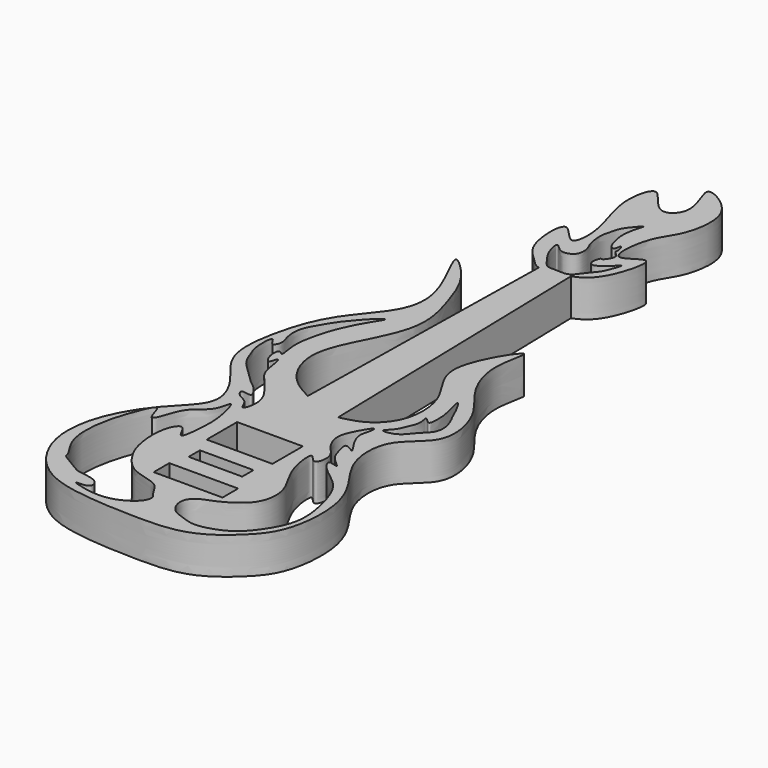
from build123d import *

# Parameters (mm, degrees)
F0_W     = 94.7368181817
F0_H     = 26.8656377017
F0_W_2   = 73.7654825033
F0_H_2   = 19.4175753778
F0_W_3   = 90.4948551659
F0_H_3   = 52.3173499345
F1_DEPTH = 50.8


with BuildPart() as f1:
    # F0 (on Top) → F1 (new body)
    with BuildSketch(Plane.XY):
        with BuildLine():
            Line((-26.777314246, -102.7174559399), (-26.777314246, -24.9484376807))
            add(Edge.make_bspline(
                [(-26.777314246, -24.9484376807), (-39.2312087682, -18.3222932809), (-66.3421038811, -3.8917691565), (-93.2111224428, 56.541696922), (-53.2867958123, 126.0574303904), (-29.4325944066, 185.6586160234), (-49.4443986063, 249.3921397477), (-65.5252329262, 293.730587512), (-119.362659462, 344.5491811008), (-62.6492740466, 252.4311506789), (-69.5790474784, 192.3042427025), (-122.8978816271, 140.4289316735), (-146.2131183139, 74.8351837618), (-157.2289647293, -3.4443591981), (-112.558016626, -45.3097005874), (-87.414818505, -98.8730440568), (-135.4999134873, -139.0010691811), (-174.8306453568, -199.5798889361), (-184.3285757713, -275.159054464), (-139.4009724375, -343.1159063066), (-67.1603687192, -357.7329771624), (-0.8963752119, -360.5040406834), (72.4335905606, -360.687743194), (123.3704142941, -320.087810804), (154.0312608897, -282.3316046681), (159.77433301, -204.2555943933), (136.3917821151, -155.6626959683), (103.3161909454, -116.0865102319), (101.6346534567, -48.3484051386), (160.0056956207, -20.0672731934), (144.5184043425, 53.9115123978), (104.0808293724, 92.354168094), (81.3471966308, 151.2656857783), (106.6746609476, 225.7375418331), (35.3870715235, 116.5359806728), (91.4293660799, 68.234357501), (95.4225237962, -1.7142324276), (62.1604827287, -36.5481789616), (39.3243153174, -41.0183277921), (29.7819609504, -43.330212238)],
                knots=[0, 0, 0, 0, 0.0229585842, 0.0494792802, 0.0800979203, 0.1079155331, 0.1354247943, 0.1613141449, 0.1826490829, 0.2119326009, 0.2397360785, 0.2687535267, 0.2982009865, 0.3279552592, 0.3547193068, 0.3791978786, 0.4049840116, 0.4348044416, 0.4644896876, 0.4943798073, 0.5235319054, 0.552296069, 0.5817350946, 0.6090353113, 0.6331782983, 0.6631514142, 0.6886336906, 0.7134830575, 0.7400743616, 0.7657560257, 0.7933750972, 0.8196980275, 0.8481032881, 0.8697292126, 0.9007606855, 0.9296715453, 0.9573448386, 0.9803820232, 1, 1, 1, 1], degree=3))
            Line((29.7819609504, -43.330212238), (29.7819609504, -102.7174559399))
            Line((29.7819609504, -102.7174559399), (-26.777314246, -102.7174559399))
        make_face()
        with BuildLine():
            add(Edge.make_bspline(
                [(-15.1307486045, -305.4060729293), (-18.3042318475, -300.8530080079), (-25.0048790468, -282.8992251354), (-67.2863073174, -281.4491261402), (-91.4725964814, -246.3057993484), (-98.0666054984, -226.6507034961), (-102.1486745324, -198.504063124), (-97.7472723552, -171.9277726408), (-85.3075294306, -160.1120760401), (-73.5384183589, -195.9806056953), (-69.1539407652, -147.0590153613), (-69.0956395225, -122.353010453), (-81.0828203859, -78.5356652638), (-82.8104361679, -115.5147749363), (-113.430987203, -127.413094798), (-119.3627980093, -163.6658936643), (-129.5254335658, -172.0778206375), (-134.6667829214, -133.6976871196), (-152.7640216102, -177.2619016491), (-164.4163427386, -218.3959833726), (-163.5362186125, -265.1201806374), (-142.4021068102, -290.4684201278), (-144.7982436586, -297.0962648623), (-119.3795342135, -309.8508541645), (-110.8197056083, -317.379108981), (-79.7594657771, -317.7601405115), (-74.7531928539, -338.9301642842), (-108.4550614544, -335.1181663671), (-63.0876516254, -348.6312553047), (-31.9112242636, -341.9878811549), (-10.6588882991, -325.6295866703), (-8.3592667288, -311.9255984226), (-13.0545901414, -308.3847822987), (-15.1307486045, -305.4060729293)],
                knots=[0, 0, 0, 0, 0.0303677172, 0.0717339787, 0.1136232633, 0.144103955, 0.1794095084, 0.2144290149, 0.2351442601, 0.264129108, 0.3000009463, 0.340093357, 0.3747976989, 0.4039326785, 0.4419310747, 0.4812044789, 0.4974507382, 0.5280993132, 0.562992395, 0.6100073772, 0.6552849103, 0.6910419801, 0.7059755348, 0.7393491946, 0.764160354, 0.7993093963, 0.822452033, 0.8488669615, 0.8843299335, 0.9249292226, 0.9579869232, 0.9801328105, 1, 1, 1, 1], degree=3))
        make_face(mode=Mode.SUBTRACT)
        with BuildLine():
            add(Edge.make_bspline(
                [(-64.5757773193, -89.68909416), (-62.3751326617, -89.8897313335), (-56.6643469328, -70.30676405), (-66.4202894461, -47.8730991614), (-86.3814452561, -25.8105109504), (-99.9941182653, -9.085762161), (-101.1237710936, 13.4055238447), (-105.8683399444, 26.4262189241), (-108.6932784597, 4.8850513303), (-119.3362455986, 24.1315192094), (-117.0208787658, 41.2574697004), (-106.7738712415, 29.295213804), (-113.108592247, 54.5248600714), (-110.7964029184, 78.2424906655), (-103.0537280839, 108.9048547484), (-92.4280242344, 132.0019958819), (-84.7724040267, 146.6987608911), (-66.9751807473, 173.4649935535), (-87.3898675677, 156.4327894291), (-99.2919664765, 141.6253255718), (-110.147491878, 129.3146807467), (-121.3244814744, 109.5517188568), (-132.8076045881, 90.1061158679), (-130.1627342501, 66.6137070125), (-124.5186333202, 55.7102864337), (-131.6496692592, 39.8030716324), (-141.1767630022, 64.4365601762), (-142.8090249757, 32.1153039765), (-137.628426765, 16.0545550683), (-128.8096921183, -6.1977806695), (-113.091406722, -18.6467319282), (-97.7323404683, -36.394328225), (-84.2152302889, -44.2154741045), (-69.5260367468, -66.2168674613), (-93.6248290695, -56.3310312886), (-84.8944311357, -72.0601926028), (-70.1264348204, -74.0330744966), (-66.5616631789, -89.5080369755), (-64.5757773193, -89.68909416)],
                knots=[0, 0, 0, 0, 0.0272020021, 0.0612208612, 0.0970987274, 0.1277411858, 0.1600069336, 0.177210935, 0.1985286412, 0.2236268362, 0.2473273242, 0.2634086778, 0.2906028414, 0.3253509775, 0.3624827443, 0.3952418913, 0.4248344384, 0.4545166912, 0.479935876, 0.5108724797, 0.5373929218, 0.5687642371, 0.6003706981, 0.6315171834, 0.6555686796, 0.6759963033, 0.698708543, 0.7279223466, 0.758226314, 0.7894217174, 0.8192945931, 0.8506402291, 0.8791981939, 0.9052969132, 0.9286969361, 0.9488751656, 0.9754526152, 1, 1, 1, 1], degree=3))
        make_face(mode=Mode.SUBTRACT)
        with Locations((1.9969510081, -253.3066006764)):
            Rectangle(F0_W, F0_H, mode=Mode.SUBTRACT)
        with Locations((-1.4187931074, -205.7491017036)):
            Rectangle(F0_W_2, F0_H_2, mode=Mode.SUBTRACT)
        with Locations((-2.9519939519, -145.8439510766)):
            Rectangle(F0_W_3, F0_H_3, mode=Mode.SUBTRACT)
        with BuildLine():
            add(Edge.make_bspline(
                [(64.1092075811, -334.4089107162), (73.7170202385, -334.7309394647), (94.1416803938, -328.5767122938), (112.0189665986, -318.0127819484), (127.9474242496, -300.2543009656), (151.0213898979, -262.6313307526), (144.3306692826, -214.6055802094), (131.556153482, -175.5897876646), (111.7517534583, -157.4250196201), (93.4276782196, -145.0791631366), (82.3436450638, -126.4469766808), (107.0268010721, -137.2610691228), (85.4740629162, -121.0590541519), (80.9088910547, -110.1990913504), (72.2717073411, -81.8416286391), (96.8050524305, -101.7147279243), (77.5277588966, -77.0987019087), (72.5203658106, -60.0282861143), (76.1778671416, -51.6280789626), (78.9155603529, -31.9778844912), (62.595356284, -59.7317108256), (55.0233769719, -79.3218962588), (64.5341767548, -103.5552695975), (83.3286841217, -117.2913769001), (75.9107714276, -148.1916910274), (59.6233736586, -120.490623102), (63.1170468542, -160.4838137864), (76.1458639837, -187.2936201798), (93.5053245486, -215.5360559293), (89.4425102932, -249.0782462962), (69.4882082149, -267.3109184309), (47.1891795617, -279.682154185), (27.4771588642, -285.1808446838), (16.6068788762, -301.4110010192), (26.3988080495, -323.3030095278), (42.6806160346, -328.5173635951), (55.8296077659, -334.1314001879), (64.1092075811, -334.4089107162)],
                knots=[0, 0, 0, 0, 0.0336349756, 0.0612630477, 0.0906400103, 0.1303266849, 0.1727791618, 0.2115879866, 0.2425428089, 0.2728629412, 0.2938893873, 0.3146907036, 0.3380855724, 0.3639167273, 0.3896550407, 0.4112798106, 0.4376172767, 0.4647153752, 0.4840989235, 0.5037838795, 0.5319676002, 0.561763817, 0.5912545771, 0.6209225783, 0.6471101735, 0.6693726928, 0.6995337324, 0.7357493525, 0.7701981431, 0.8041053411, 0.8352880298, 0.8661572846, 0.8934462404, 0.9184270538, 0.946222276, 0.9710148244, 1, 1, 1, 1], degree=3))
        make_face(mode=Mode.SUBTRACT)
        with BuildLine():
            add(Edge.make_bspline(
                [(86.6805726311, -37.0405755939), (87.6864511959, -38.834030495), (106.768788999, -36.8542543519), (117.6649294291, -18.2704604075), (132.9487782956, -6.8978437285), (136.1405734166, 11.7233618786), (127.0818582411, 31.2966115256), (125.0739968109, 33.3971003354), (118.8795461043, 49.7304939772), (105.1254469422, 71.4117185692), (115.3278168145, 37.9882241993), (116.639575769, 23.0279850788), (115.7579770522, 1.547786905), (102.3435827084, 19.7174078559), (108.0838772936, 1.2182932954), (101.7845185121, -11.3698167705), (96.2295403326, -27.8262443508), (85.8417172097, -35.544918544), (86.6805726311, -37.0405755939)],
                knots=[0, 0, 0, 0, 0.0643591149, 0.1405133063, 0.2082729845, 0.2767202884, 0.3480869086, 0.3756604483, 0.4449604423, 0.5061550113, 0.581364771, 0.6553791242, 0.7116353548, 0.7623422352, 0.8140285026, 0.8772000429, 0.9463275247, 1, 1, 1, 1], degree=3))
        make_face(mode=Mode.SUBTRACT)
        with BuildLine():
            Line((-19.5736786382, 363.6819219978), (-26.777314246, -24.9484376807))
            Line((-26.777314246, -24.9484376807), (-26.777314246, -102.7174559399))
            Line((-26.777314246, -102.7174559399), (29.7819609504, -102.7174559399))
            Line((29.7819609504, -102.7174559399), (29.7819609504, -43.330212238))
            Line((29.7819609504, -43.330212238), (20.0286903399, 369.2613146461))
            add(Edge.make_bspline(
                [(-19.5736786382, 363.6819219978), (-9.3451103161, 360.8092080195), (7.1102569264, 364.0864360276), (20.0286903399, 369.2613146461)],
                knots=[0.9488344444, 0.9488344444, 0.9488344444, 0.9488344444, 1, 1, 1, 1], degree=3))
        make_face()
        with BuildLine():
            add(Edge.make_bspline(
                [(20.0286903399, 369.2613146461), (33.4246170828, 374.6274680069), (53.3826611732, 390.0374048865), (72.681519291, 468.661973874), (22.0444616864, 417.4852458449), (28.5027597668, 490.8857873315), (50.2869151623, 515.1039310993), (61.5080294958, 555.0398491005), (55.7191557863, 597.6408044648), (-5.5009300069, 631.5574395405), (34.6246892281, 568.6387706778), (-2.9663253113, 534.7842820554), (-33.779630532, 599.6798790435), (-48.1268006331, 544.5686162631), (-33.1768111258, 500.0494700726), (-22.3545995055, 460.8287494891), (-29.1734454587, 421.761378719), (-64.330768869, 479.6086557618), (-63.1899095814, 398.3453989718), (-36.6079862257, 378.1494703609), (-27.0225012563, 365.7739388063), (-19.5736786382, 363.6819219978)],
                knots=[0, 0, 0, 0, 0.0530567456, 0.1103870018, 0.1540689821, 0.2093481698, 0.2591836084, 0.3091053504, 0.3629474799, 0.4132100044, 0.4682724144, 0.5121721508, 0.5656007241, 0.6112073557, 0.6694693888, 0.7235297472, 0.7606237414, 0.8057719757, 0.8627002382, 0.9115737901, 0.9488344444, 0.9488344444, 0.9488344444, 0.9488344444], degree=3))
            add(Edge.make_bspline(
                [(-19.5736786382, 363.6819219978), (-9.3451103161, 360.8092080195), (7.1102569264, 364.0864360276), (20.0286903399, 369.2613146461)],
                knots=[0.9488344444, 0.9488344444, 0.9488344444, 0.9488344444, 1, 1, 1, 1], degree=3))
        make_face()
        with BuildLine():
            add(Edge.make_bspline(
                [(14.7897831994, 371.5351735792), (19.7624501948, 373.5769912737), (25.8243951167, 384.247148372), (38.4569344113, 397.0306862735), (43.202197494, 408.9675792744), (49.9839015998, 428.0820637672), (38.469828403, 413.794910161), (29.2194946466, 407.4315133534), (21.2065254217, 403.2184063999), (14.6807061136, 409.3093294678), (18.9722177061, 423.3065770863), (21.8888161621, 419.967827696), (29.8986087027, 431.0136679714), (28.4626391094, 438.8430667203), (20.5738758747, 443.3332801108), (23.4049194042, 447.3483253687), (17.7793164593, 463.0191113905), (17.5121430399, 446.9485593216), (9.8156146261, 449.834784774), (5.881590882, 462.3953401807), (2.6917766789, 475.9030685926), (4.435158875, 492.885072873), (7.4133004061, 503.0911449636), (10.9129501928, 513.2588592398), (-6.6420641908, 492.313758639), (-9.3526383639, 483.5592622408), (-14.5658889383, 464.5169556004), (-13.3867298957, 454.9464699322), (-11.887235746, 441.3709578289), (-4.4826029946, 429.2268922449), (-6.0998553296, 413.3319920103), (-16.0540387126, 408.0742447118), (-26.6998109564, 408.057077859), (-32.765013489, 415.1814869394), (-39.5344945316, 419.8139122571), (-35.4976289828, 401.3975387845), (-28.9843357244, 389.439635793), (-18.8781247951, 375.6904437412), (-12.8373307939, 370.1058847812), (-2.8854948289, 371.7375959696), (9.6516741682, 369.4254240331), (14.7897831994, 371.5351735792)],
                knots=[0, 0, 0, 0, 0.0317691669, 0.0643189403, 0.0943851697, 0.1215834603, 0.1470383711, 0.1754578515, 0.1968377358, 0.2174120431, 0.244063287, 0.2544192188, 0.280785144, 0.3024490417, 0.3231921147, 0.339767128, 0.3639616936, 0.3862641728, 0.4030521088, 0.4308423405, 0.4604581256, 0.4922275218, 0.5190704922, 0.5353804611, 0.5700941678, 0.5973936999, 0.6304858823, 0.6550963188, 0.6830241644, 0.7125016771, 0.7416925265, 0.7663454952, 0.7906263195, 0.8147151992, 0.8305917083, 0.8594340227, 0.8907155111, 0.9222634324, 0.9432382738, 0.9671738639, 1, 1, 1, 1], degree=3))
        make_face(mode=Mode.SUBTRACT)
    extrude(amount=F1_DEPTH)


solid = f1.part
